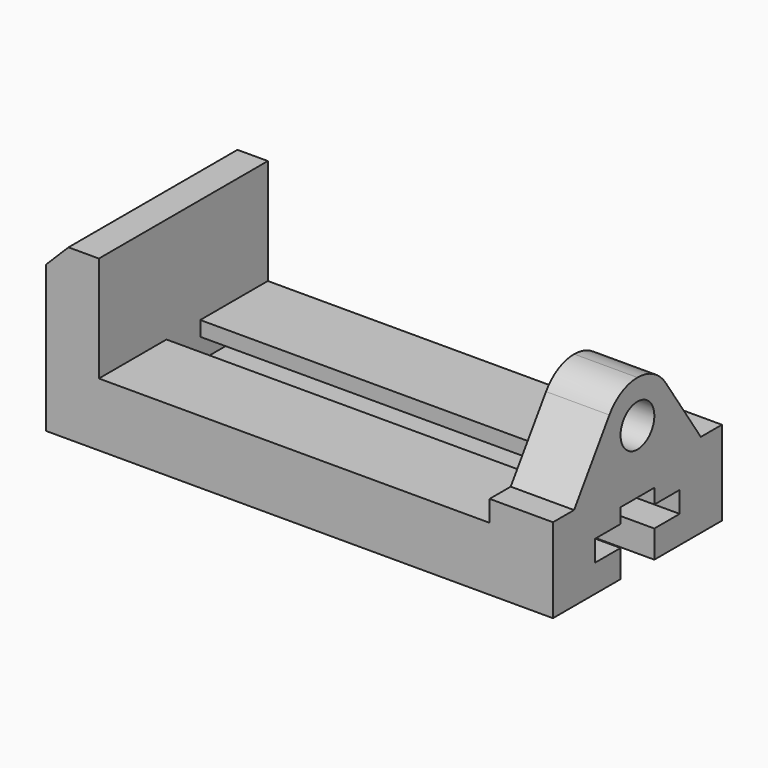
from build123d import *

# Parameters (mm, degrees)
F1_DEPTH = 127
F3_DEPTH = 273.05
F4_R     = 12.7
F5_DEPTH = 50.8
F6_DEPTH = 50.8


with BuildPart() as f1:
    # F0 (on Front) → F1 (new body)
    with BuildSketch(Plane.XZ):
        Polygon((0, 88.129619), (0, 0), (304.8, 0), (304.8, 101.600003), (266.7, 101.600003), (266.7, 38.1), (31.75, 38.1), (31.75, 101.600003), (13.470384, 101.600003), align=None)
    extrude(amount=-F1_DEPTH)

    # F2 (on face) → F3 (cut)
    with BuildSketch(Plane.YZ.offset(304.8)):
        Polygon((50.8, 16.51), (50.8, 0), (76.2, 0), (76.2, 16.51), (95.25, 16.51), (95.25, 29.21), (76.2, 29.21), (76.2, 38.1), (50.8, 38.1), (50.8, 29.21), (31.75, 29.21), (31.75, 16.51), align=None)
    extrude(amount=-F3_DEPTH, mode=Mode.SUBTRACT)

    # F4 (on face) → F5 (cut)
    with BuildSketch(Plane.YZ.offset(304.8)):
        with Locations((63.5, 76.200003)):
            Circle(F4_R)
    extrude(amount=-F5_DEPTH, mode=Mode.SUBTRACT)

    # F4 (on face) → F6 (cut)
    with BuildSketch(Plane.YZ.offset(304.8)):
        with BuildLine():
            Line((0, 101.600003), (0, 50.8))
            Line((0, 50.8), (15.875, 50.8))
            Line((15.875, 50.8), (42.406574, 90.350175))
            ThreePointArc((42.406574, 90.350175), (51.547058, 98.611767), (63.5, 101.600003))
            Line((63.5, 101.600003), (0, 101.600003))
        make_face()
        with BuildLine():
            Line((127, 101.600003), (63.5, 101.600003))
            ThreePointArc((63.5, 101.600003), (75.452942, 98.611767), (84.593426, 90.350175))
            Line((84.593426, 90.350175), (111.125, 50.8))
            Line((111.125, 50.8), (127, 50.8))
            Line((127, 50.8), (127, 101.600003))
        make_face()
    extrude(amount=-F6_DEPTH, mode=Mode.SUBTRACT)


solid = f1.part
